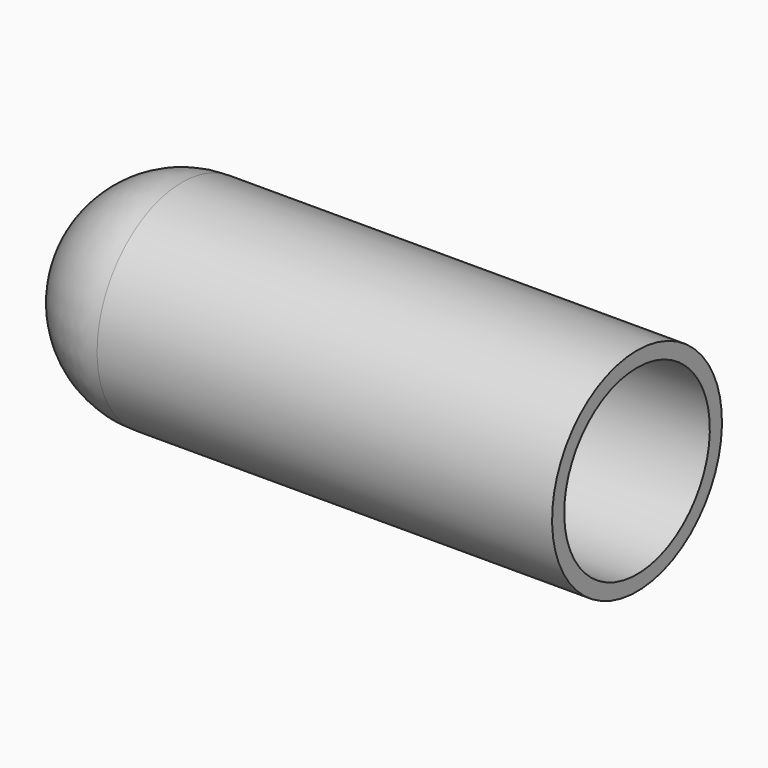
from build123d import *


with BuildPart() as f1:
    # F0 (on Front) → F1 (revolve)
    with BuildSketch(Plane.XZ):
        with BuildLine():
            Line((0, 6), (0, 7))
            Line((0, 7), (-30, 7))
            ThreePointArc((-30, 7), (-34.949747, 4.949747), (-37, 0))
            Line((-37, 0), (-36, 0))
            ThreePointArc((-36, 0), (-34.242641, 4.242641), (-30, 6))
            Line((-30, 6), (0, 6))
        make_face()
    revolve(axis=Axis((-18, 0, 0), (-1, 0, 0)))


solid = f1.part
